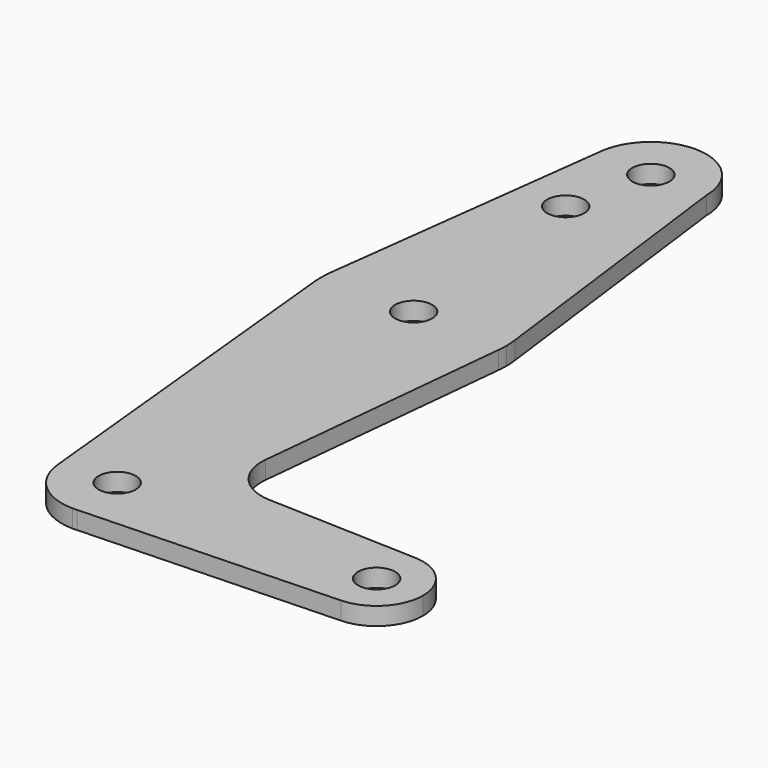
from build123d import *

# Parameters (mm, degrees)
F0_R     = 3.175
F1_DEPTH = 3.048


with BuildPart() as f1:
    # F0 (on Top) → F1 (new body)
    with BuildSketch(Plane.XY):
        with BuildLine():
            ThreePointArc((9.525, 114.3), (0.596483, 123.806305), (-9.450293, 115.490625))
            ThreePointArc((-9.450293, 115.490625), (-0.596483, 104.793695), (9.525, 114.3))
        make_face()
        with Locations((0, 114.3)):
            Circle(F0_R, mode=Mode.SUBTRACT)
        with BuildLine():
            Line((-9.450293, 115.490625), (-15.750488, 65.484375))
            ThreePointArc((-15.750488, 65.484375), (-0.012053, 79.374995), (15.747457, 65.508289))
            Line((15.747457, 65.508289), (9.525, 114.3))
            ThreePointArc((9.525, 114.3), (-0.596483, 104.793695), (-9.450293, 115.490625))
        make_face()
        with Locations((-3.175, 100.0252)):
            Circle(F0_R, mode=Mode.SUBTRACT)
        with BuildLine():
            ThreePointArc((-15.750488, 65.484375), (-15.873744, 63.699705), (-15.795426, 61.9125))
            ThreePointArc((-15.795426, 61.9125), (0, 47.625), (15.795426, 61.9125))
            ThreePointArc((15.795426, 61.9125), (15.855094, 62.705253), (15.875, 63.5))
            ThreePointArc((15.875, 63.5), (15.843082, 64.506168), (15.747457, 65.508289))
            ThreePointArc((15.747457, 65.508289), (-0.012053, 79.374995), (-15.750488, 65.484375))
        make_face()
        with Locations((0, 63.5)):
            Circle(F0_R, mode=Mode.SUBTRACT)
        with BuildLine():
            ThreePointArc((-9.477255, -0.9525), (-0.476848, 9.513056), (9.525, 0))
            ThreePointArc((9.525, 0), (6.970557, -6.491299), (0.677344, -9.500886))
            Line((0.677344, -9.500886), (44.732405, -7.932475))
            ThreePointArc((44.732405, -7.932475), (36.5125, 0), (44.732405, 7.932475))
            Line((44.732405, 7.932475), (18.968328, 8.849706))
            ThreePointArc((18.968328, 8.849706), (13.261204, 11.567463), (11.340836, 17.589892))
            Line((11.340836, 17.589892), (15.795426, 61.9125))
            ThreePointArc((15.795426, 61.9125), (0, 47.625), (-15.795426, 61.9125))
            Line((-15.795426, 61.9125), (-9.477255, -0.9525))
        make_face()
        with BuildLine():
            ThreePointArc((0.677344, -9.500886), (6.970557, -6.491299), (9.525, 0))
            ThreePointArc((9.525, 0), (-0.476848, 9.513056), (-9.477255, -0.9525))
            ThreePointArc((-9.477255, -0.9525), (-6.389564, -7.063929), (0, -9.525))
            Line((0, -9.525), (0.677344, -9.500886))
        make_face()
        Circle(F0_R, mode=Mode.SUBTRACT)
        with BuildLine():
            ThreePointArc((44.732405, 7.932475), (36.5125, 0), (44.732405, -7.932475))
            ThreePointArc((44.732405, -7.932475), (50.161633, -5.51191), (52.3875, 0))
            ThreePointArc((52.3875, 0), (50.161633, 5.51191), (44.732405, 7.932475))
        make_face()
        with Locations((44.45, 0)):
            Circle(F0_R, mode=Mode.SUBTRACT)
    extrude(amount=F1_DEPTH)


solid = f1.part
